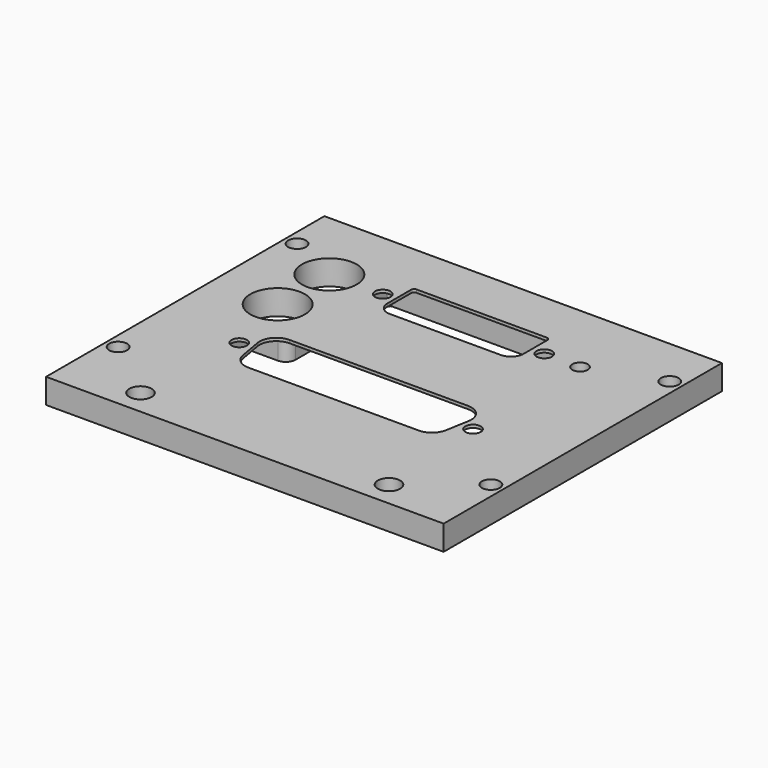
from build123d import *

# Parameters (mm, degrees)
SKETCH_W            = 80
SKETCH_H            = 70
PAD_DEPTH           = 5
SKETCH001_R         = 1.8
HOLE_DEPTH          = 5.001
SKETCH005_R         = 2.25
HOLE003_DEPTH       = 5.001
SKETCH003_R         = 1.55
HOLE001_DEPTH       = 5.001
SKETCH002_R         = 5.5
HOLE002_DEPTH       = 25
POCKET_DEPTH        = 5.001
HOLE004_D           = 3.1
HOLE004_CBORE_D     = 3.5
HOLE004_CBORE_DEPTH = 2.5
POCKET001_DEPTH     = 4.4


with BuildPart() as part:
    # Sketch → Pad (new body)
    with BuildSketch(Plane.XY):
        Rectangle(SKETCH_W, SKETCH_H)
    extrude(amount=PAD_DEPTH)

    # Sketch001 (on Face6 of Pad) → Hole (cut, through all)
    with BuildSketch(Plane.XY.offset(5)):
        with Locations((-37.5, 25)):
            Circle(SKETCH001_R)
        with Locations((37.5, 25)):
            Circle(SKETCH001_R)
        with Locations((-37.5, -20)):
            Circle(SKETCH001_R)
        with Locations((37.5, -20)):
            Circle(SKETCH001_R)
    extrude(amount=-HOLE_DEPTH, mode=Mode.SUBTRACT)

    # Sketch005 (on Face5 of Hole) → Hole003 (cut, through all)
    with BuildSketch(Plane.XY.offset(5)):
        with Locations((-25, -30)):
            Circle(SKETCH005_R)
        with Locations((25, -30)):
            Circle(SKETCH005_R)
    extrude(amount=-HOLE003_DEPTH, mode=Mode.SUBTRACT)

    # Sketch003 (on Face5 of Hole003) → Hole001 (cut, through all)
    with BuildSketch(Plane.XY.offset(5)):
        with Locations((-16.255, 20)):
            Circle(SKETCH003_R)
        with Locations((16.255, 20)):
            Circle(SKETCH003_R)
        with Locations((-23.52, -7)):
            Circle(SKETCH003_R)
        with Locations((23.52, -7)):
            Circle(SKETCH003_R)
    extrude(amount=-HOLE001_DEPTH, mode=Mode.SUBTRACT)

    # Sketch002 (on Face5 of Hole001) → Hole002 (cut)
    with BuildSketch(Plane.XY.offset(5)):
        with Locations((-27, 7)):
            Circle(SKETCH002_R)
        with Locations((-27, 20)):
            Circle(SKETCH002_R)
    extrude(amount=-HOLE002_DEPTH, mode=Mode.SUBTRACT)

    # Sketch004 (on Face5 of Hole002) → Pocket (cut, through all)
    with BuildSketch(Plane.XY.offset(5)):
        with BuildLine():
            Line((-13.715, 23.94), (-13.715, 17.97))
            ThreePointArc((-13.715, 17.97), (-12.971051, 16.173949), (-11.175, 15.43))
            Line((-11.175, 15.43), (11.175, 15.43))
            ThreePointArc((11.175, 15.43), (12.971051, 16.173949), (13.715, 17.97))
            Line((13.715, 17.97), (13.715, 23.94))
            ThreePointArc((13.715, 23.94), (13.530477, 24.385477), (13.085, 24.57))
            Line((13.085, 24.57), (-13.085, 24.57))
            ThreePointArc((-13.085, 24.57), (-13.530477, 24.385477), (-13.715, 23.94))
        make_face()
        with BuildLine():
            Line((-21.26, -5.231721), (-20.431263, -9.931721))
            ThreePointArc((-20.431263, -9.931721), (-19.285496, -11.916249), (-17.132157, -12.7))
            Line((-17.132157, -12.7), (17.132157, -12.7))
            ThreePointArc((17.132157, -12.7), (19.285496, -11.916249), (20.431263, -9.931721))
            Line((20.431263, -9.931721), (21.26, -5.231721))
            ThreePointArc((21.26, -5.231721), (20.527143, -2.496662), (17.960894, -1.3))
            Line((17.960894, -1.3), (-17.960894, -1.3))
            ThreePointArc((-17.960894, -1.3), (-20.527143, -2.496662), (-21.26, -5.231721))
        make_face()
    extrude(amount=-POCKET_DEPTH, mode=Mode.SUBTRACT)

    # Hole004 (through all)
    with Locations(Plane(origin=(0, 0, 0), x_dir=(1, 0, 0), z_dir=(0, 0, -1))):
        with Locations((23.45, -20)):
            CounterBoreHole(HOLE004_D / 2, HOLE004_CBORE_D / 2, HOLE004_CBORE_DEPTH)

    # Sketch007 (on Face4 of Hole004) → Pocket001 (cut)
    with BuildSketch(Plane(origin=(0, 0, 0), x_dir=(1, 0, 0), z_dir=(0, 0, -1))):
        with BuildLine():
            Line((-18.4, -25.15), (18.4, -25.15))
            ThreePointArc((18.4, -25.15), (18.824264, -24.974264), (19, -24.55))
            Line((19, -24.55), (19, -16.85))
            ThreePointArc((21, -14.85), (19.585786, -15.435786), (19, -16.85))
            Line((21, -14.85), (24.7, -14.85))
            ThreePointArc((26.7, -16.85), (26.114214, -15.435786), (24.7, -14.85))
            Line((26.7, -16.85), (26.7, -23.15))
            ThreePointArc((26.7, -23.15), (27.285786, -24.564214), (28.7, -25.15))
            Line((28.7, -25.15), (33, -25.15))
            ThreePointArc((33, -25.15), (34.414214, -24.564214), (35, -23.15))
            Line((35, -23.15), (35, -1.525))
            ThreePointArc((35, -1.525), (34.414214, -0.110786), (33, 0.475))
            Line((33, 0.475), (28.75, 0.475))
            ThreePointArc((26.75, 2.475), (27.335786, 1.060786), (28.75, 0.475))
            Line((26.75, 2.475), (26.75, 11.525))
            ThreePointArc((28.75, 13.525), (27.335786, 12.939214), (26.75, 11.525))
            Line((33, 13.525), (28.75, 13.525))
            ThreePointArc((33, 13.525), (34.414214, 14.110786), (35, 15.525))
            Line((35, 22.775), (35, 15.525))
            ThreePointArc((35, 22.775), (34.414214, 24.189214), (33, 24.775))
            Line((-33, 24.775), (33, 24.775))
            ThreePointArc((-33, 24.775), (-34.414214, 24.189214), (-35, 22.775))
            Line((-35, 15.525), (-35, 22.775))
            ThreePointArc((-35, 15.525), (-34.414214, 14.110786), (-33, 13.525))
            Line((-28.75, 13.525), (-33, 13.525))
            ThreePointArc((-26.75, 11.525), (-27.335786, 12.939214), (-28.75, 13.525))
            Line((-26.75, 11.525), (-26.75, 1.075))
            ThreePointArc((-26.75, 1.075), (-26.574264, 0.650736), (-26.15, 0.475))
            Line((-26.15, 0.475), (-21, 0.475))
            ThreePointArc((-19, -1.525), (-19.585786, -0.110786), (-21, 0.475))
            Line((-19, -24.55), (-19, -1.525))
            ThreePointArc((-19, -24.55), (-18.824264, -24.974264), (-18.4, -25.15))
        make_face()
    extrude(amount=-POCKET001_DEPTH, mode=Mode.SUBTRACT)


solid = part.part
